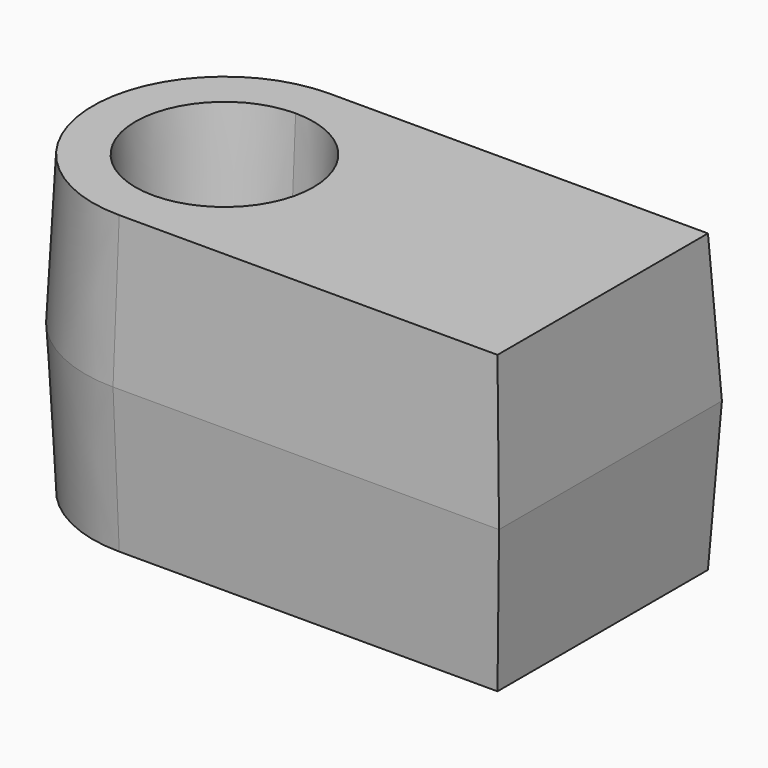
from build123d import *

# Parameters (mm, degrees)
F1_DEPTH      = 25.4
F1_TAPER      = 3
F1_DEPTH_BACK = 25.4
F1_TAPER_BACK = 3


with BuildPart() as f1:
    # F0 (on Top) → F1 (new body, two sides)
    with BuildSketch(Plane.XY) as f1_sk:
        with BuildLine():
            Line((27.773257345, -24.0317825228), (27.773257345, 23.7439740449))
            Line((27.773257345, 23.7439740449), (-38.4220667183, 23.7439740449))
            ThreePointArc((-38.4220667183, 23.7439740449), (-21.5307859957, 16.7473764837), (-14.5341884345, -0.1439042389))
            ThreePointArc((-14.5341884345, -0.1439042389), (-21.5307859957, -17.0351849616), (-38.4220667183, -24.0317825228))
            Line((-38.4220667183, -24.0317825228), (27.773257345, -24.0317825228))
        make_face()
        with BuildLine():
            ThreePointArc((-14.5341884345, -0.1439042389), (-21.5307859957, 16.7473764837), (-38.4220667183, 23.7439740449))
            Line((-38.4220667183, 23.7439740449), (-38.4220667183, 13.7782827055))
            ThreePointArc((-38.4220667183, 13.7782827055), (-28.577593921, 9.7005685584), (-24.4998797739, -0.1439042389))
            ThreePointArc((-24.4998797739, -0.1439042389), (-28.577593921, -9.9883770363), (-38.4220667183, -14.0660911834))
            Line((-38.4220667183, -14.0660911834), (-38.4220667183, -24.0317825228))
            ThreePointArc((-38.4220667183, -24.0317825228), (-21.5307859957, -17.0351849616), (-14.5341884345, -0.1439042389))
        make_face()
        with BuildLine():
            Line((-38.4220667183, 13.7782827055), (-38.4220667183, 23.7439740449))
            ThreePointArc((-38.4220667183, 23.7439740449), (-62.3099450022, -0.1439042389), (-38.4220667183, -24.0317825228))
            Line((-38.4220667183, -24.0317825228), (-38.4220667183, -14.0660911834))
            ThreePointArc((-38.4220667183, -14.0660911834), (-52.3442536628, -0.1439042389), (-38.4220667183, 13.7782827055))
        make_face()
    extrude(amount=F1_DEPTH, taper=F1_TAPER)
    extrude(f1_sk.sketch, amount=-F1_DEPTH_BACK, taper=F1_TAPER_BACK)


solid = f1.part
